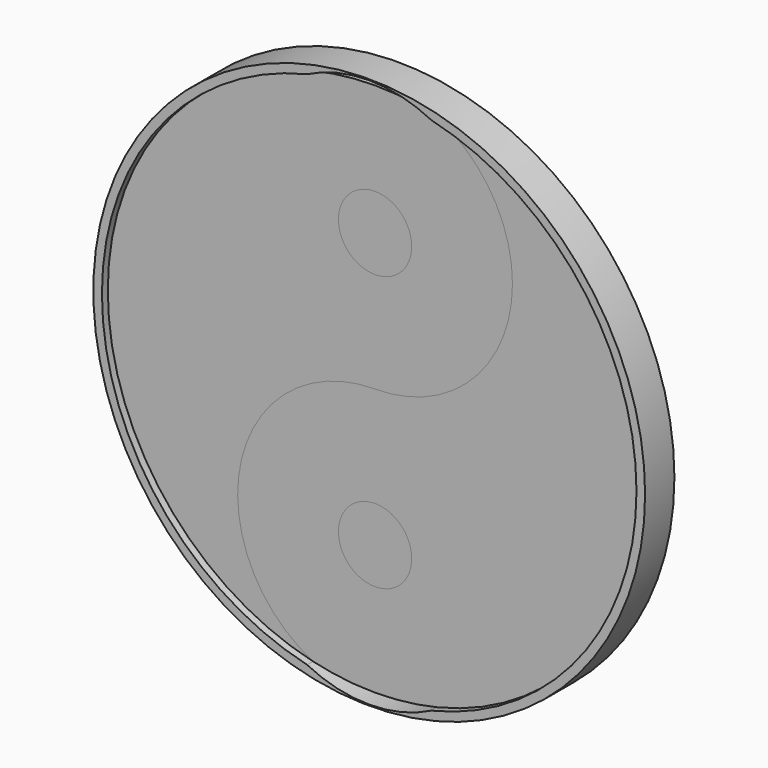
from build123d import *

# Parameters (mm, degrees)
F0_R     = 2.54
F1_DEPTH = 2.032
F2_DEPTH = 2.032
F0_R_2   = 19.1262
F3_DEPTH = 2.54


with BuildPart() as f1:
    # F0 (on Front) → F1 (new body)
    with BuildSketch(Plane.XZ):
        with BuildLine():
            ThreePointArc((21.798777159, 8.5576027294), (12.534127159, 15.8708420332), (17.4961653512, 26.5804351961))
            ThreePointArc((17.4961653512, 26.5804351961), (3.269477159, 8.5576027294), (17.4961653512, -9.4652297372))
            ThreePointArc((17.4961653512, -9.4652297372), (12.534127159, 1.2443634257), (21.798777159, 8.5576027294))
        make_face()
        with BuildLine():
            ThreePointArc((31.323777159, 18.0826027294), (29.913824986, 23.0697485831), (26.1013889668, 26.5804351961))
            ThreePointArc((26.1013889668, 26.5804351961), (21.798777159, 27.0869027294), (17.4961653512, 26.5804351961))
            ThreePointArc((17.4961653512, 26.5804351961), (12.534127159, 15.8708420332), (21.798777159, 8.5576027294))
            ThreePointArc((21.798777159, 8.5576027294), (28.5339692498, 11.3474106386), (31.323777159, 18.0826027294))
        make_face()
        with Locations((21.798777159, 18.0826027294)):
            Circle(F0_R, mode=Mode.SUBTRACT)
    extrude(amount=F1_DEPTH)


with BuildPart() as f1b:
    # F0 (on Front) → F1, piece 2 (new body)
    with BuildSketch(Plane.XZ):
        with Locations((21.798777159, -0.9673972706)):
            Circle(F0_R)
    extrude(amount=F1_DEPTH)


with BuildPart() as f2:
    # F0 (on Front) → F2 (new body)
    with BuildSketch(Plane.XZ):
        with BuildLine():
            ThreePointArc((26.1013889668, -9.4652297372), (36.3428368305, -2.9230456303), (40.328077159, 8.5576027294))
            ThreePointArc((40.328077159, 8.5576027294), (36.3428368305, 20.0382510892), (26.1013889668, 26.5804351961))
            ThreePointArc((26.1013889668, 26.5804351961), (29.913824986, 23.0697485831), (31.323777159, 18.0826027294))
            ThreePointArc((31.323777159, 18.0826027294), (28.5339692498, 11.3474106386), (21.798777159, 8.5576027294))
            ThreePointArc((21.798777159, 8.5576027294), (28.5339692498, 5.7677948202), (31.323777159, -0.9673972706))
            ThreePointArc((31.323777159, -0.9673972706), (29.913824986, -5.9545431242), (26.1013889668, -9.4652297372))
        make_face()
        with BuildLine():
            ThreePointArc((17.4961653512, -9.4652297372), (21.798777159, -9.9716972706), (26.1013889668, -9.4652297372))
            ThreePointArc((26.1013889668, -9.4652297372), (29.913824986, -5.9545431242), (31.323777159, -0.9673972706))
            ThreePointArc((31.323777159, -0.9673972706), (28.5339692498, 5.7677948202), (21.798777159, 8.5576027294))
            ThreePointArc((21.798777159, 8.5576027294), (12.534127159, 1.2443634257), (17.4961653512, -9.4652297372))
        make_face()
        with Locations((21.798777159, -0.9673972706)):
            Circle(F0_R, mode=Mode.SUBTRACT)
    extrude(amount=F2_DEPTH)


with BuildPart() as f2b:
    # F0 (on Front) → F2, piece 2 (new body)
    with BuildSketch(Plane.XZ):
        with Locations((21.798777159, 18.0826027294)):
            Circle(F0_R)
    extrude(amount=F2_DEPTH)


with BuildPart() as f3:
    # F0 (on Front) → F3 (new body)
    with BuildSketch(Plane.XZ):
        with Locations((21.798777159, 8.5576027294)):
            Circle(F0_R_2)
        with BuildLine():
            ThreePointArc((26.1013889668, 26.5804351961), (36.3428368305, 20.0382510892), (40.328077159, 8.5576027294))
            ThreePointArc((40.328077159, 8.5576027294), (36.3428368305, -2.9230456303), (26.1013889668, -9.4652297372))
            ThreePointArc((26.1013889668, -9.4652297372), (21.798777159, -10.4923972706), (17.4961653512, -9.4652297372))
            ThreePointArc((17.4961653512, -9.4652297372), (3.269477159, 8.5576027294), (17.4961653512, 26.5804351961))
            ThreePointArc((17.4961653512, 26.5804351961), (21.798777159, 27.6076027294), (26.1013889668, 26.5804351961))
        make_face(mode=Mode.SUBTRACT)
    extrude(amount=F3_DEPTH)


solid = Compound([f1.part, f1b.part, f2.part, f2b.part, f3.part])
